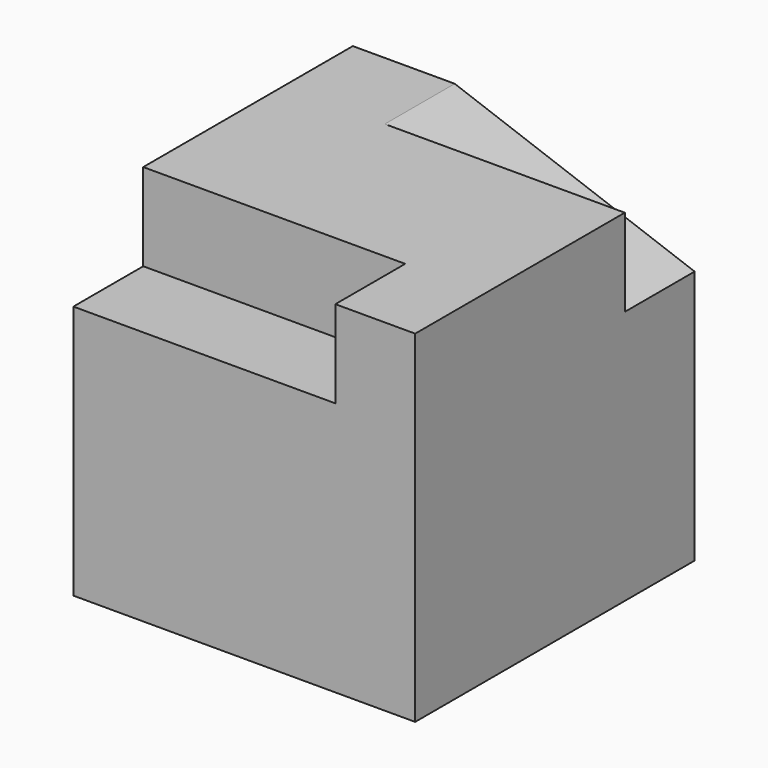
from build123d import *

# Parameters (mm, degrees)
F0_W     = 99.4218587875
F0_H     = 99.4218587875
F1_DEPTH = 50.8
F2_W     = 76.2
F2_H     = 25.4
F3_DEPTH = 25.4
F5_DEPTH = 25.4


with BuildPart() as f1:
    # F0 (on Front) → F1 (new body, symmetric)
    with BuildSketch(Plane.XZ):
        Rectangle(F0_W, F0_H)
    extrude(amount=F1_DEPTH, both=True)

    # F2 (on face) → F3 (cut)
    with BuildSketch(Plane.XZ.offset(50.8)):
        with Locations((-11.6109293938, 37.0109293938)):
            Rectangle(F2_W, F2_H)
    extrude(amount=-F3_DEPTH, mode=Mode.SUBTRACT)

    # F4 (on face) → F5 (cut)
    with BuildSketch(Plane(origin=(0, 50.8, 0), x_dir=(-1, 0, 0), z_dir=(0, 1, 0))):
        Polygon((-49.7109293938, 24.3109293938), (20.0749970604, 49.7109293938), (-49.7109293938, 49.7109293938), align=None)
    extrude(amount=-F5_DEPTH, mode=Mode.SUBTRACT)


solid = f1.part
